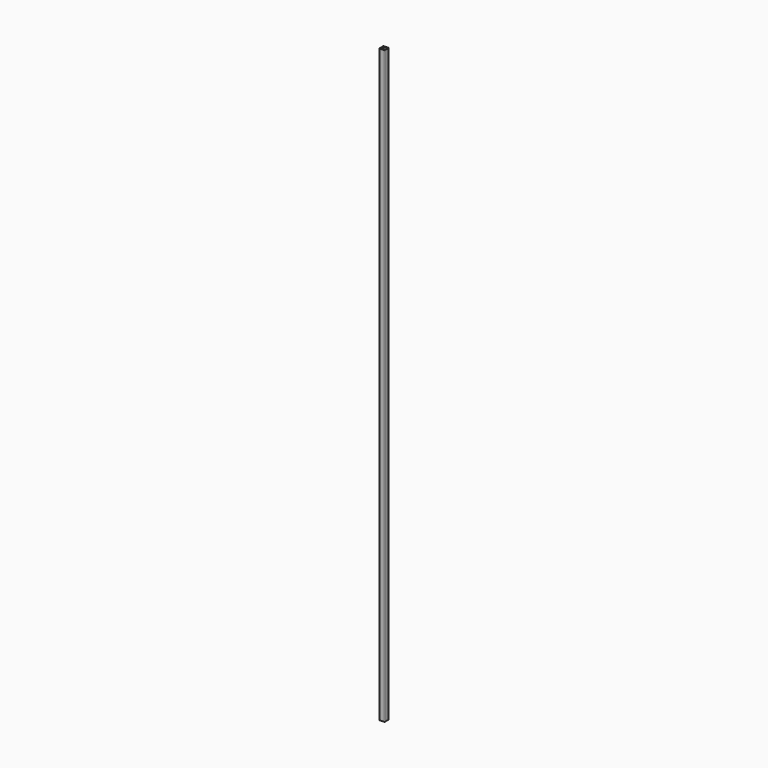
from build123d import *

# Parameters (mm, degrees)
F0_W     = 13.97
F0_H     = 13.97
F1_DEPTH = 2133.6


with BuildPart() as f1:
    # F0 (on Top) → F1 (new body)
    with BuildSketch(Plane.XY):
        with BuildLine():
            Line((-9.525, 8.025), (-9.525, -8.025))
            ThreePointArc((-9.525, -8.025), (-9.08566, -9.08566), (-8.025, -9.525))
            Line((-8.025, -9.525), (8.025, -9.525))
            ThreePointArc((8.025, -9.525), (9.08566, -9.08566), (9.525, -8.025))
            Line((9.525, -8.025), (9.525, 8.025))
            ThreePointArc((9.525, 8.025), (9.08566, 9.08566), (8.025, 9.525))
            Line((8.025, 9.525), (-8.025, 9.525))
            ThreePointArc((-8.025, 9.525), (-9.08566, 9.08566), (-9.525, 8.025))
        make_face()
        Rectangle(F0_W, F0_H, mode=Mode.SUBTRACT)
    extrude(amount=-F1_DEPTH)


solid = f1.part
